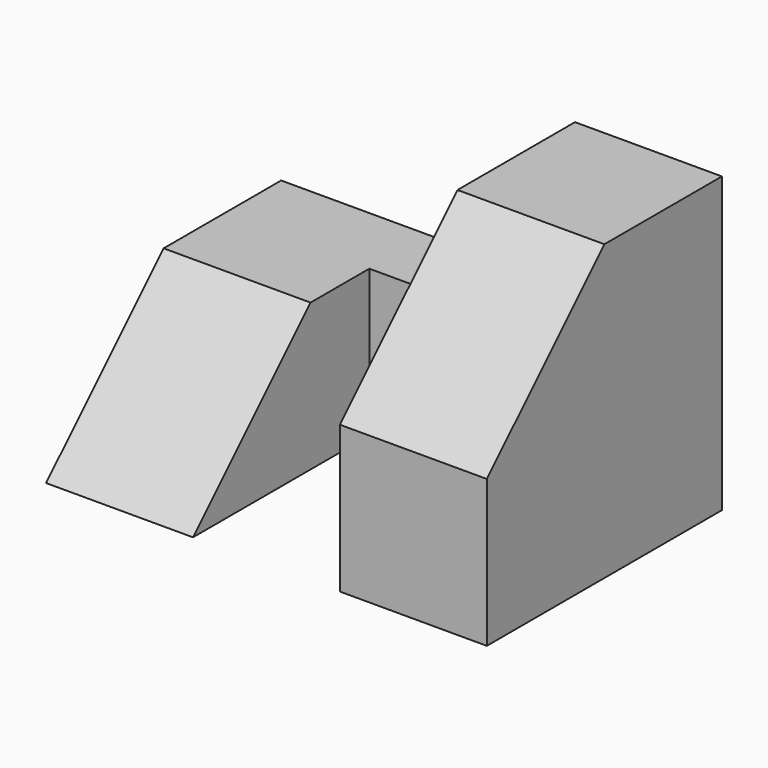
from build123d import *

# Parameters (mm, degrees)
F0_W     = 12.7
F0_H     = 25.4
F0_H_2   = 12.7
F1_DEPTH = 25.4
F2_W     = 12.7
F2_H     = 12.7
F3_DEPTH = 6.35
F5_DEPTH = 12.7
F7_DEPTH = 38.1


with BuildPart() as f1:
    # F0 (on Front) → F1 (new body)
    with BuildSketch(Plane.XZ):
        with Locations((31.75, 12.7)):
            Rectangle(F0_W, F0_H)
        with Locations((6.35, 6.35)):
            Rectangle(F0_W, F0_H_2)
    extrude(amount=F1_DEPTH)

    # F2 (on Front) → F3 (join)
    with BuildSketch(Plane.XZ):
        with Locations((19.05, 6.35)):
            Rectangle(F2_W, F2_H)
    extrude(amount=F3_DEPTH)

    # F4 (on Right) → F5 (cut)
    with BuildSketch(Plane.YZ):
        Polygon((-25.4, 0), (-12.7, 12.7), (-25.4, 12.7), align=None)
    extrude(amount=F5_DEPTH, mode=Mode.SUBTRACT)

    # F6 (on Right) → F7 (cut)
    with BuildSketch(Plane.YZ):
        Polygon((-12.7, 25.4), (-25.4, 25.4), (-25.4, 12.7), align=None)
    extrude(amount=F7_DEPTH, mode=Mode.SUBTRACT)


solid = f1.part
